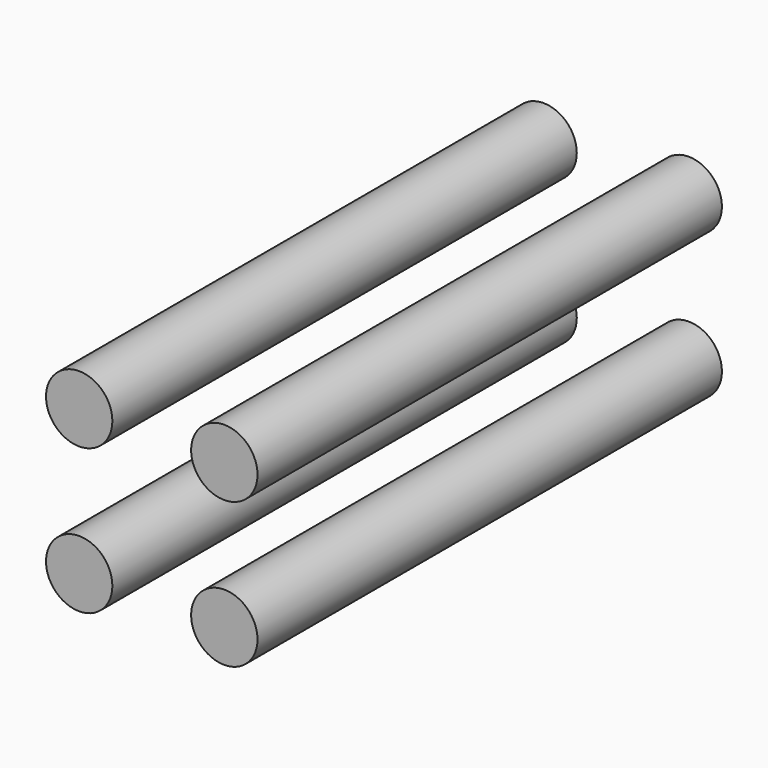
from build123d import *

# Parameters (mm, degrees)
CYLINDER023_R          = 1.6
CYLINDER023_DEPTH      = 28
CYLINDER023_ROLL_ANGLE = 90
CYLINDER024_R          = 1.6
CYLINDER024_DEPTH      = 28
CYLINDER024_ROLL_ANGLE = 90
CYLINDER019_R          = 1.6
CYLINDER019_DEPTH      = 28
CYLINDER019_ROLL_ANGLE = 90
CYLINDER021_R          = 1.6
CYLINDER021_DEPTH      = 28
CYLINDER021_ROLL_ANGLE = 90


with BuildPart() as cylinder023:
    # Cylinder023 → Cylinder023 (new body)
    with BuildSketch(Plane.XY):
        Circle(CYLINDER023_R)
    extrude(amount=CYLINDER023_DEPTH)


with BuildPart() as cylinder023_1:
    # Cylinder023 roll: moved
    add(cylinder023.part.rotate(Axis((0, 0, 0), (1, 0, 0)), CYLINDER023_ROLL_ANGLE))


with BuildPart() as cylinder023_2:
    # Cylinder023 placement: moved
    add(cylinder023_1.part.moved(Location((55, 20, -17))))


with BuildPart() as cylinder024:
    # Cylinder024 → Cylinder024 (new body)
    with BuildSketch(Plane.XY):
        Circle(CYLINDER024_R)
    extrude(amount=CYLINDER024_DEPTH)


with BuildPart() as cylinder024_1:
    # Cylinder024 roll: moved
    add(cylinder024.part.rotate(Axis((0, 0, 0), (1, 0, 0)), CYLINDER024_ROLL_ANGLE))


with BuildPart() as cylinder024_2:
    # Cylinder024 placement: moved
    add(cylinder024_1.part.moved(Location((55, 20, -10))))


with BuildPart() as cylinder019:
    # Cylinder019 → Cylinder019 (new body)
    with BuildSketch(Plane.XY):
        Circle(CYLINDER019_R)
    extrude(amount=CYLINDER019_DEPTH)


with BuildPart() as cylinder019_1:
    # Cylinder019 roll: moved
    add(cylinder019.part.rotate(Axis((0, 0, 0), (1, 0, 0)), CYLINDER019_ROLL_ANGLE))


with BuildPart() as cylinder019_2:
    # Cylinder019 placement: moved
    add(cylinder019_1.part.moved(Location((48, 20, -10))))


with BuildPart() as mount_holes_top_right:
    # Cylinder021 → Cylinder021 (new body)
    with BuildSketch(Plane.XY):
        Circle(CYLINDER021_R)
    extrude(amount=CYLINDER021_DEPTH)


with BuildPart() as mount_holes_top_right_1:
    # Cylinder021 roll: moved
    add(mount_holes_top_right.part.rotate(Axis((0, 0, 0), (1, 0, 0)), CYLINDER021_ROLL_ANGLE))


with BuildPart() as mount_holes_top_right_2:
    # Cylinder021 placement: moved
    add(mount_holes_top_right_1.part.moved(Location((48, 20, -17))))

    # Fusion058: union Cylinder023, Cylinder024, Cylinder019
    add(cylinder023_2.part)
    add(cylinder024_2.part)
    add(cylinder019_2.part)


with BuildPart() as mount_holes_top_right_3:
    # Fusion058 placement: moved
    add(mount_holes_top_right_2.part.moved(Location((-71, 0, 46))))


solid = mount_holes_top_right_3.part
